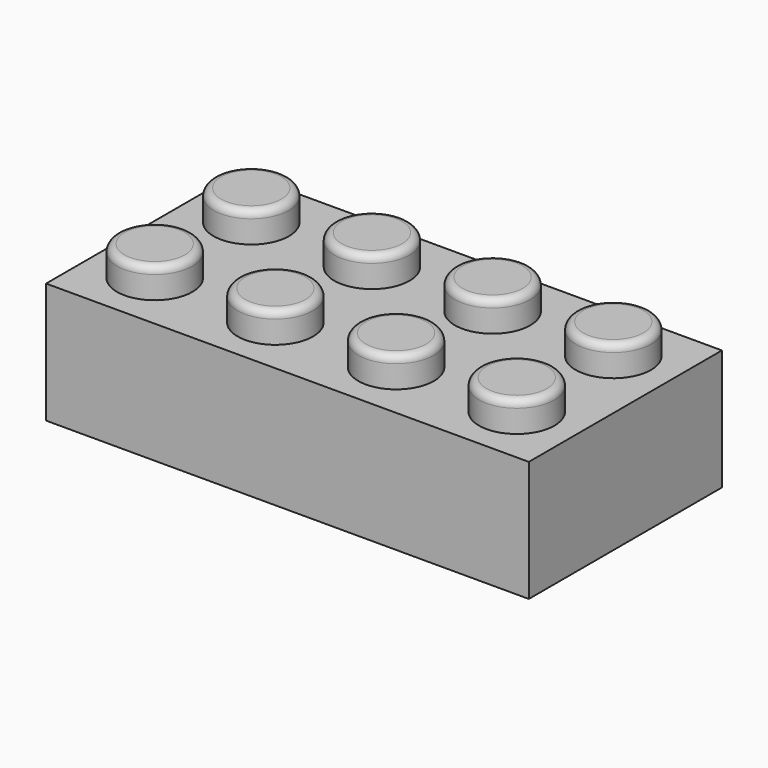
from build123d import *

# Parameters (mm, degrees)
F1_W     = 32
F1_H     = 16
F2_DEPTH = 8
F3_R     = 2.5
F4_DEPTH = 2
F5_R     = 0.5
F6_T     = -1.5


with BuildPart() as f2:
    # F1 (on Top) → F2 (new body)
    with BuildSketch(Plane.XY):
        with Locations((1.3878969476, -0.9949109302)):
            Rectangle(F1_W, F1_H)
    extrude(amount=F2_DEPTH)

    # F3 (on offset) → F4 (join)
    with BuildSketch(Plane.XY.offset(8)):
        with Locations((-10.6121030524, 3.0050890698)):
            Circle(F3_R)
        with Locations((-2.6121030524, 3.0050890698)):
            Circle(F3_R)
        with Locations((5.3878969476, 3.0050890698)):
            Circle(F3_R)
        with Locations((13.3878969476, 3.0050890698)):
            Circle(F3_R)
        with Locations((13.3878969476, -4.9949109302)):
            Circle(F3_R)
        with Locations((5.3878969476, -4.9949109302)):
            Circle(F3_R)
        with Locations((-2.6121030524, -4.9949109302)):
            Circle(F3_R)
        with Locations((-10.6121030524, -4.9949109302)):
            Circle(F3_R)
    extrude(amount=F4_DEPTH)

    # F5
    f5_edges = [f2.edges().sort_by_distance(p)[0] for p in [
        (-13.112103, 3.005089, 10),
        (-13.112103, -4.994911, 10),
        (-5.112103, 3.005089, 10),
        (-5.112103, -4.994911, 10),
        (2.887897, 3.005089, 10),
        (2.887897, -4.994911, 10),
        (10.887897, 3.005089, 10),
        (10.887897, -4.994911, 10),
    ]]
    fillet(f5_edges, radius=F5_R)

    # F6
    f6_openings = [f2.faces().sort_by_distance(p)[0] for p in [
        (1.387897, -0.994911, 0),
    ]]
    offset(amount=F6_T, openings=f6_openings, kind=Kind.INTERSECTION)


solid = f2.part
